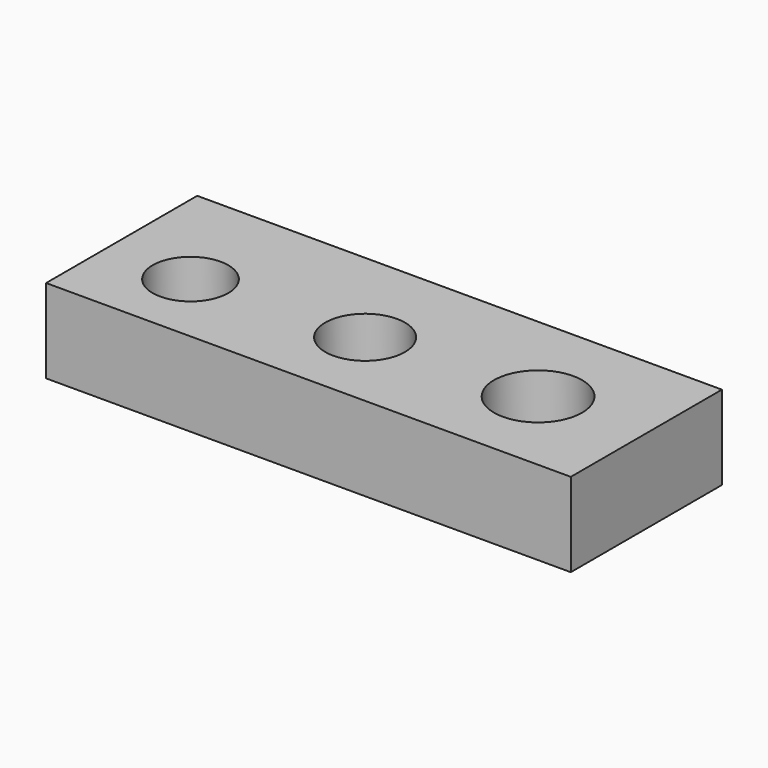
from build123d import *

# Parameters (mm, degrees)
F1_DEPTH = 2


with BuildPart() as f1:
    # F0 (on Top) → F1 (new body)
    with BuildSketch(Plane.XY):
        with BuildLine():
            ThreePointArc((-3.35, -0.45), (-4.886396, 0.186396), (-4.25, -1.35))
            ThreePointArc((-4.25, -1.35), (-3.613604, -1.086396), (-3.35, -0.45))
        make_face()
        with BuildLine():
            ThreePointArc((0.7, -0.25), (-0.921751, 0.421751), (-0.25, -1.2))
            ThreePointArc((-0.25, -1.2), (0.421751, -0.921751), (0.7, -0.25))
        make_face()
        Polygon((6.25, 2.25), (-6.25, 2.25), (-6.25, -2.25), (-4.25, -2.25), (-0.25, -2.25), (3.75, -2.25), (6.25, -2.25), align=None)
        with BuildLine():
            ThreePointArc((-3.35, -0.45), (-3.613604, -1.086396), (-4.25, -1.35))
            ThreePointArc((-4.25, -1.35), (-4.886396, 0.186396), (-3.35, -0.45))
        make_face(mode=Mode.SUBTRACT)
        with BuildLine():
            ThreePointArc((0.7, -0.25), (0.421751, -0.921751), (-0.25, -1.2))
            ThreePointArc((-0.25, -1.2), (-0.921751, 0.421751), (0.7, -0.25))
        make_face(mode=Mode.SUBTRACT)
        with BuildLine():
            ThreePointArc((4.8, -0.1), (4.492462, -0.842462), (3.75, -1.15))
            ThreePointArc((3.75, -1.15), (3.007538, 0.642462), (4.8, -0.1))
        make_face(mode=Mode.SUBTRACT)
    extrude(amount=F1_DEPTH)


solid = f1.part
